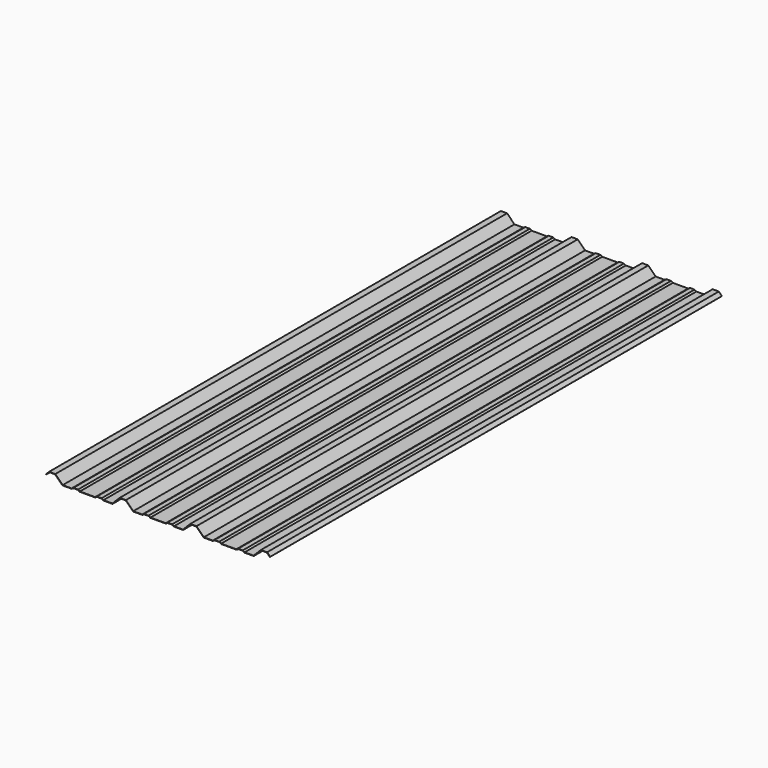
from build123d import *

# Parameters (mm, degrees)
F1_DEPTH = 1219.2


with BuildPart() as f1:
    # F0 (on Front) → F1 (new body, symmetric)
    with BuildSketch(Plane.XZ):
        Polygon((-33.3375, 0), (33.3375, 0), (41.275, 4.7625), (60.325, 4.7625), (68.2625, 0), (107.95, 0), (139.7, 31.75), (165.1, 31.75), (196.85, 0), (236.5375, 0), (244.475, 4.7625), (263.525, 4.7625), (271.4625, 0), (338.1375, 0), (346.075, 4.7625), (365.125, 4.7625), (373.0625, 0), (412.75, 0), (444.5, 31.75), (469.9, 31.75), (482.6, 19.05), (483.722532, 20.172532), (470.557564, 33.3375), (443.842436, 33.3375), (412.092436, 1.5875), (373.502212, 1.5875), (365.564712, 6.35), (345.635288, 6.35), (337.697788, 1.5875), (271.902212, 1.5875), (263.964712, 6.35), (244.035288, 6.35), (236.097788, 1.5875), (197.507564, 1.5875), (165.757564, 33.3375), (139.042436, 33.3375), (107.292436, 1.5875), (68.702212, 1.5875), (60.764712, 6.35), (40.835288, 6.35), (32.897788, 1.5875), (-32.897788, 1.5875), (-40.835288, 6.35), (-60.764712, 6.35), (-68.702212, 1.5875), (-107.292436, 1.5875), (-139.042436, 33.3375), (-165.757564, 33.3375), (-197.507564, 1.5875), (-236.097788, 1.5875), (-244.035288, 6.35), (-263.964712, 6.35), (-271.902212, 1.5875), (-337.697788, 1.5875), (-345.635288, 6.35), (-365.564712, 6.35), (-373.502212, 1.5875), (-412.092436, 1.5875), (-443.842436, 33.3375), (-470.557564, 33.3375), (-483.722532, 20.172532), (-482.6, 19.05), (-469.9, 31.75), (-444.5, 31.75), (-412.75, 0), (-373.0625, 0), (-365.125, 4.7625), (-346.075, 4.7625), (-338.1375, 0), (-271.4625, 0), (-263.525, 4.7625), (-244.475, 4.7625), (-236.5375, 0), (-196.85, 0), (-165.1, 31.75), (-139.7, 31.75), (-107.95, 0), (-68.2625, 0), (-60.325, 4.7625), (-41.275, 4.7625), align=None)
    extrude(amount=F1_DEPTH, both=True)


solid = f1.part
